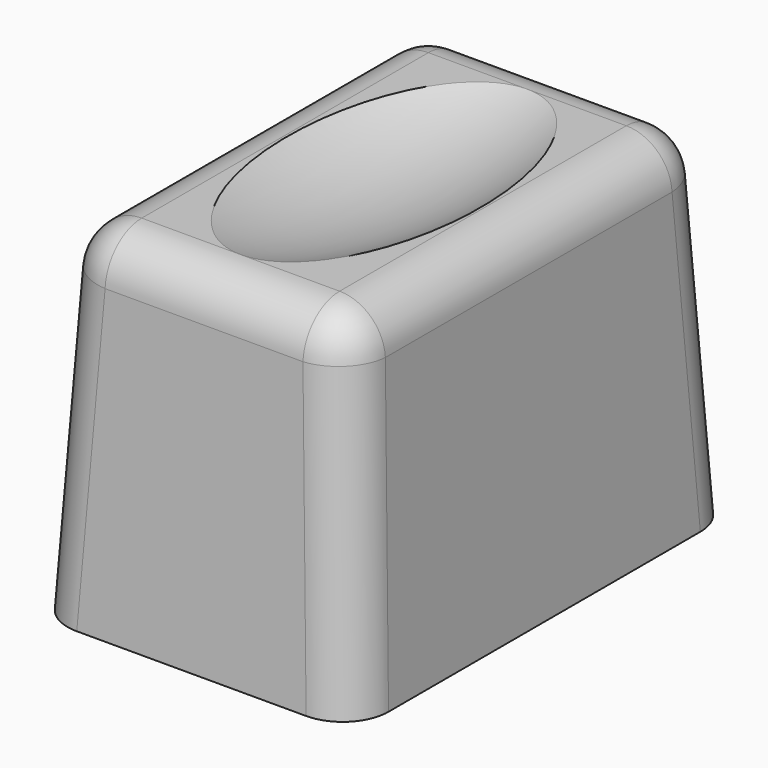
from build123d import *

# Parameters (mm, degrees)
F0_W     = 14
F0_H     = 21
F0_W_2   = 6
F0_H_2   = 1.7
F1_DEPTH = 15
F1_TAPER = 3
F2_DEPTH = 12
F2_TAPER = -3
F3_R     = 2


with BuildPart() as f1:
    # F0 (on Top) → F1 (new body)
    with BuildSketch(Plane.XY):
        Rectangle(F0_W, F0_H)
        Rectangle(F0_W_2, F0_H_2, mode=Mode.SUBTRACT)
        Rectangle(F0_W_2, F0_H_2)
    extrude(amount=F1_DEPTH, taper=F1_TAPER)

    # F0 (on Top) → F2 (cut)
    with BuildSketch(Plane.XY):
        Rectangle(F0_W_2, F0_H_2)
    extrude(amount=F2_DEPTH, taper=F2_TAPER, mode=Mode.SUBTRACT)

    # F3
    f3_edges = [f1.edges().sort_by_distance(p)[0] for p in [
        (-6.606942, 10.106942, 7.5),
        (-6.606942, -10.106942, 7.5),
        (6.606942, 10.106942, 7.5),
        (6.606942, -10.106942, 7.5),
        (6.213883, 0, 15),
        (0, -9.713883, 15),
        (0, 9.713883, 15),
        (-6.213883, 0, 15),
    ]]
    fillet(f3_edges, radius=F3_R)


with BuildPart() as f5:
    # F4 (on Top) → F5 (revolve)
    with BuildSketch(Plane.XY):
        with BuildLine():
            Line((0, 15), (0, -15))
            add(Edge.make_bspline(
                [(0, -15), (8.0832192465, -15), (8.0832192465, 0), (8.0832192465, 15), (0, 15)],
                knots=[3.1415926536, 3.1415926536, 3.1415926536, 4.7123889804, 4.7123889804, 6.2831853072, 6.2831853072, 6.2831853072], degree=2, weights=[1, 0.7071067812, 1, 0.7071067812, 1]))
        make_face()
    revolve(axis=Axis((0, -0.4179980606, 0), (0, -1, 0)))


with BuildPart() as f5_1:
    # F6: moved
    add(f5.part.moved(Location((0, 0, 21.9))))


with BuildPart() as f1_1:
    add(f1.part)

    # F7: cut F5
    add(f5_1.part, mode=Mode.SUBTRACT)


solid = f1_1.part
